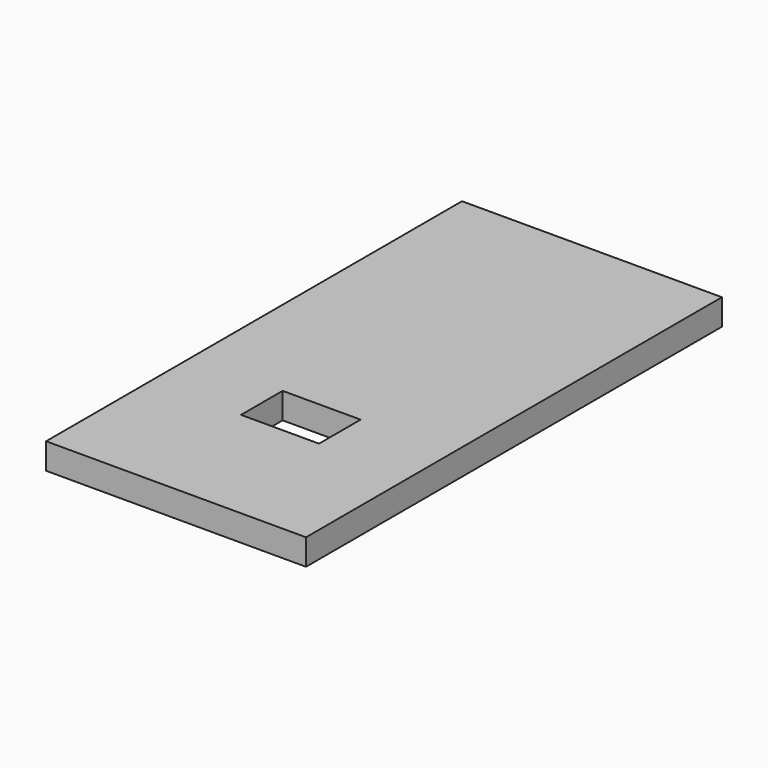
from build123d import *

# Parameters (mm, degrees)
SKETCH_W   = 100
SKETCH_H   = 200
SKETCH_W_2 = 30
SKETCH_H_2 = 20
PAD_DEPTH  = 10


with BuildPart() as part:
    # Sketch → Pad (new body)
    with BuildSketch(Plane.XY):
        with Locations((50, 100)):
            Rectangle(SKETCH_W, SKETCH_H)
        with Locations((50, 60)):
            Rectangle(SKETCH_W_2, SKETCH_H_2, mode=Mode.SUBTRACT)
    extrude(amount=PAD_DEPTH)


solid = part.part
